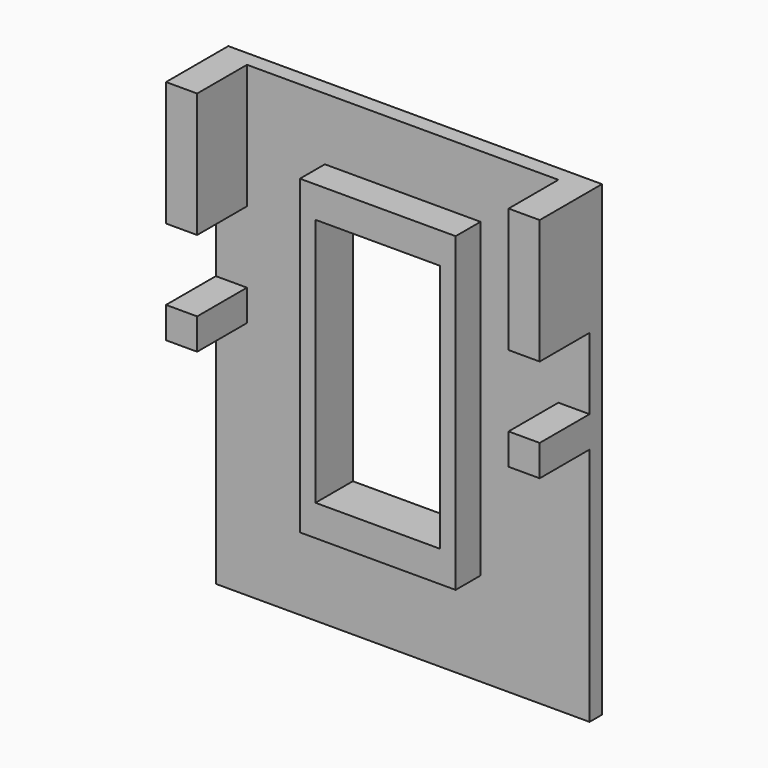
from build123d import *

# Parameters (mm, degrees)
F0_W     = 120
F0_H     = 150
F1_DEPTH = 5
F2_W     = 40
F2_H     = 80
F3_DEPTH = 5.001
F4_W     = 10
F4_H     = 40
F4_H_2   = 10
F5_DEPTH = 20
F6_W     = 40
F6_H     = 10
F7_DEPTH = 10


with BuildPart() as f1:
    # F0 (on Front) → F1 (new body)
    with BuildSketch(Plane.XZ):
        with Locations((0, -15)):
            Rectangle(F0_W, F0_H)
    extrude(amount=F1_DEPTH)

    # F2 (on face) → F3 (cut, through all)
    with BuildSketch(Plane.XZ.offset(5)):
        with Locations((0, -10)):
            Rectangle(F2_W, F2_H)
    extrude(amount=-F3_DEPTH, mode=Mode.SUBTRACT)

    # F4 (on face) → F5 (join)
    with BuildSketch(Plane.XZ.offset(5)):
        with Locations((-55, 40)):
            Rectangle(F4_W, F4_H)
        with Locations((-55, -8)):
            Rectangle(F4_W, F4_H_2)
        with Locations((55, 40)):
            Rectangle(F4_W, F4_H)
        with Locations((55, -8)):
            Rectangle(F4_W, F4_H_2)
    extrude(amount=F5_DEPTH)

    # F6 (on face) → F7 (join)
    with BuildSketch(Plane.XZ.offset(5)):
        with Locations((0, 35)):
            Rectangle(F6_W, F6_H)
        Polygon((-20, -50), (-20, 30), (-20, 40), (-25, 40), (-25, -60), (-20, -60), align=None)
        Polygon((20, 40), (20, 30), (20, -50), (20, -60), (25, -60), (25, 40), align=None)
        with Locations((0, -55)):
            Rectangle(F6_W, F6_H)
    extrude(amount=F7_DEPTH)


solid = f1.part
